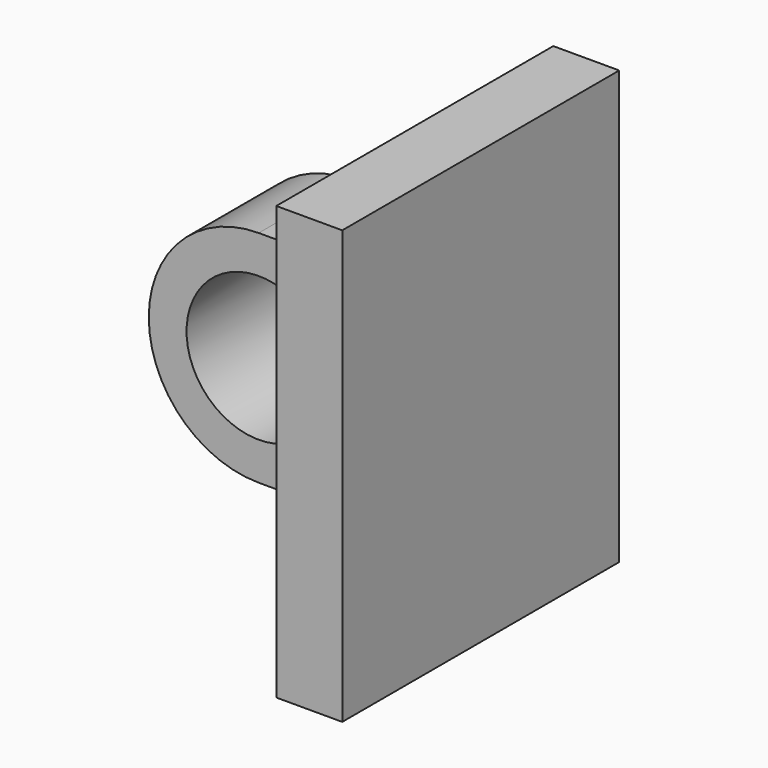
from build123d import *

# Parameters (mm, degrees)
F0_R     = 2.5
F1_DEPTH = 4
F2_W     = 12
F2_H     = 15
F3_DEPTH = 2.286


with BuildPart() as f1:
    # F0 (on Front) → F1 (new body)
    with BuildSketch(Plane.XZ):
        with BuildLine():
            Line((3.81, 3.81), (0, 3.81))
            ThreePointArc((0, 3.81), (-3.81, 0), (0, -3.81))
            Line((0, -3.81), (3.81, -3.81))
            Line((3.81, -3.81), (3.81, 3.81))
        make_face()
        Circle(F0_R, mode=Mode.SUBTRACT)
    extrude(amount=F1_DEPTH)

    # F2 (on face) → F3 (join)
    with BuildSketch(Plane.YZ.offset(3.81)):
        with Locations((-2, 0)):
            Rectangle(F2_W, F2_H)
    extrude(amount=F3_DEPTH)


solid = f1.part
